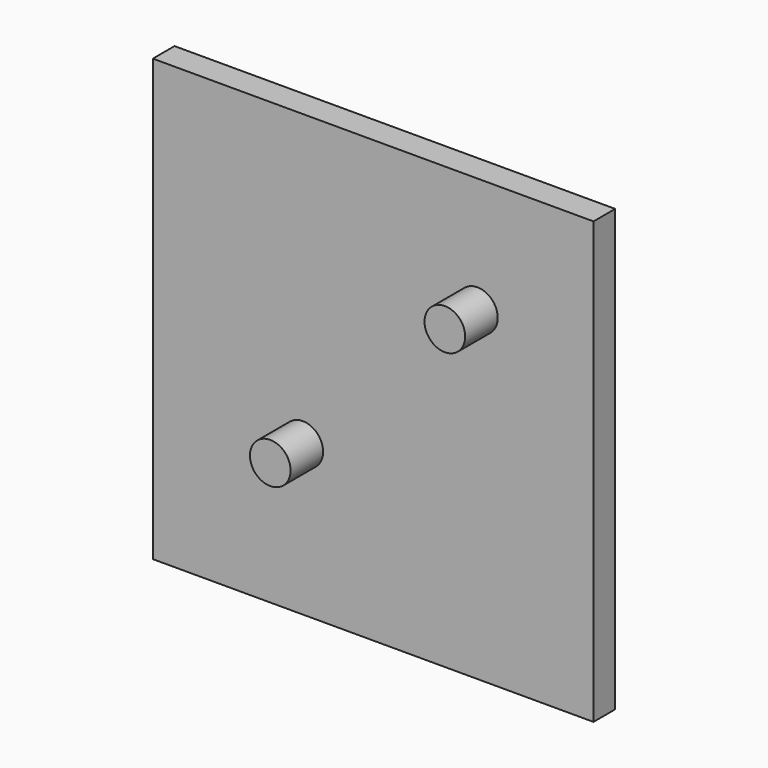
from build123d import *

# Parameters (mm, degrees)
F0_W     = 32.5
F0_H     = 2
F1_DEPTH = 32.5
F2_R     = 1.5
F3_DEPTH = 3


with BuildPart() as f1:
    # F0 (on Top) → F1 (new body)
    with BuildSketch(Plane.XY):
        Rectangle(F0_W, F0_H)
    extrude(amount=F1_DEPTH)

    # F2 (on face) → F3 (join)
    with BuildSketch(Plane.XZ.offset(1)):
        with Locations((-5.18934, 11.06066)):
            Circle(F2_R)
        with Locations((7.68934, 23.93934)):
            Circle(F2_R)
    extrude(amount=F3_DEPTH)


solid = f1.part
